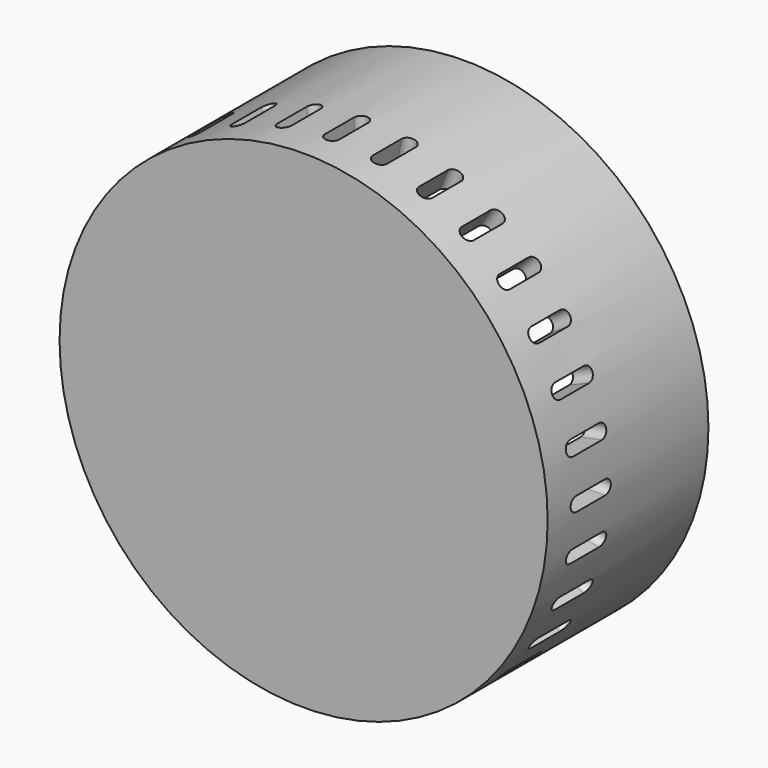
from build123d import *

# Parameters (mm, degrees)
POCKET_DEPTH       = 234.320744
POLARPATTERN_COUNT = 32


with BuildPart() as part:
    # Sketch → Revolution (revolve)
    with BuildSketch(Plane.XY):
        Polygon((0, 0), (34, 0), (34, 18), (34, 28), (33, 28), (31, 18), (31, 3), (0, 3), align=None)
    revolve(axis=Axis((0, 0, 0), (0, 1, 0)))

    # Sketch001 → Pocket (cut, through all)
    with BuildSketch(Plane.XY):
        with BuildLine():
            ThreePointArc((1, 10), (0, 11), (-1, 10))
            Line((-1, 10), (-1, 5))
            ThreePointArc((-1, 5), (0, 4), (1, 5))
            Line((1, 5), (1, 10))
        make_face()
    pocket = extrude(amount=-POCKET_DEPTH, mode=Mode.SUBTRACT)

    # PolarPattern: Pocket ×32 about axis
    polarpattern_axis = Axis((0, 0, 0), (0, 1, 0))
    for i in range(1, POLARPATTERN_COUNT):
        add(pocket.rotate(polarpattern_axis, i * 360 / POLARPATTERN_COUNT), mode=Mode.SUBTRACT)


solid = part.part
